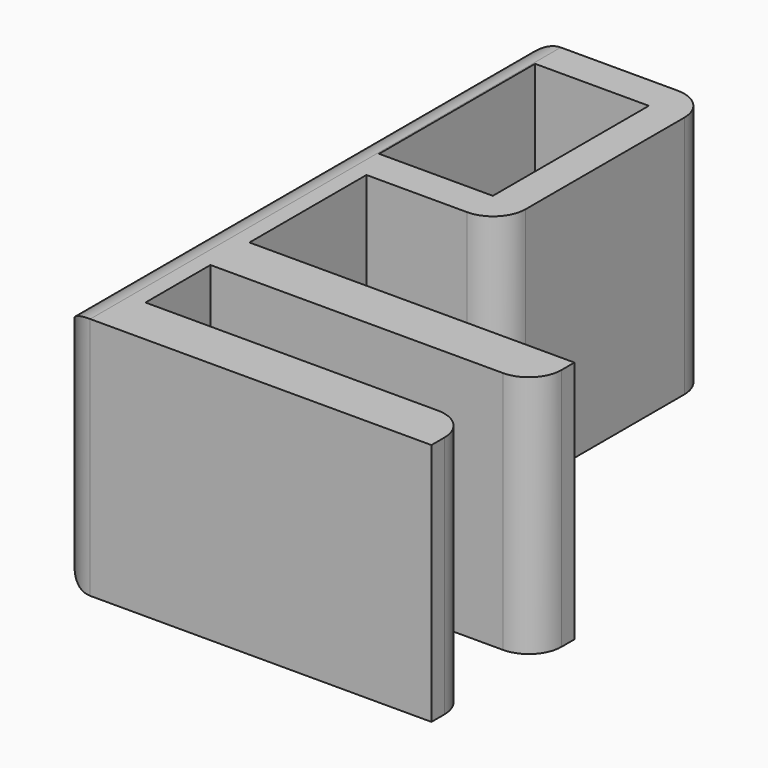
from build123d import *

# Parameters (mm, degrees)
F0_W     = 7
F0_H     = 12
F1_DEPTH = 15
F2_R     = 2


with BuildPart() as f1:
    # F0 (on Top) → F1 (new body)
    with BuildSketch(Plane.XY):
        Polygon((5.6, 8.1), (-5.6, 8.1), (-5.6, -8.1), (-2.6, -8.1), (5.6, -8.1), align=None)
        Rectangle(F0_W, F0_H, mode=Mode.SUBTRACT)
        Polygon((-2.6, -8.1), (-5.6, -8.1), (-5.6, -28.1), (17.4, -28.1), (17.4, -25.1), (-2.6, -25.1), (-2.6, -20.1), (17.4, -20.1), (17.4, -17.1), (-2.6, -17.1), align=None)
    extrude(amount=F1_DEPTH)

    # F2
    f2_edges = [f1.edges().sort_by_distance(p)[0] for p in [
        (-5.6, 8.1, 7.5),
        (-5.6, -10, 15),
        (-5.6, -28.1, 7.5),
        (-5.6, -10, 0),
        (17.4, -20.1, 7.5),
        (17.4, -25.1, 7.5),
        (5.6, 8.1, 7.5),
        (5.6, -8.1, 7.5),
    ]]
    fillet(f2_edges, radius=F2_R)


solid = f1.part
